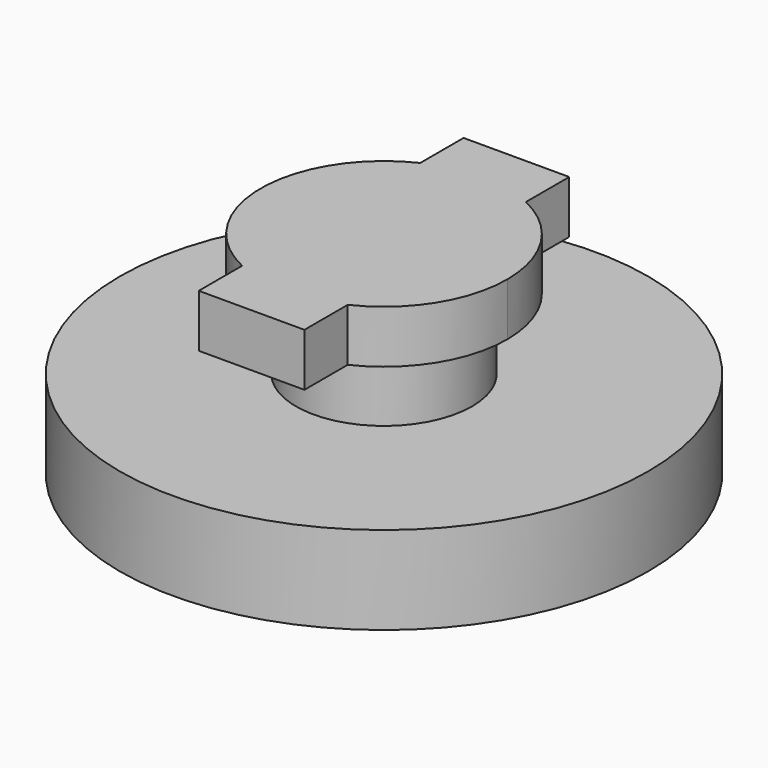
from build123d import *

# Parameters (mm, degrees)
F1_DEPTH = 15
F2_R     = 25
F3_DEPTH = 20
F5_R     = 75
F6_DEPTH = 25


with BuildPart() as f1:
    # F0 (on Top) → F1 (new body)
    with BuildSketch(Plane.XY):
        with BuildLine():
            ThreePointArc((15, -31.6227766017), (29.5803989155, -18.7082869339), (35, 0))
            ThreePointArc((35, 0), (29.5803989155, 18.7082869339), (15, 31.6227766017))
            Line((15, 31.6227766017), (15, 27.5))
            Line((15, 27.5), (-15, 27.5))
            Line((-15, 27.5), (-15, 31.6227766017))
            ThreePointArc((-15, 31.6227766017), (-35, 0), (-15, -31.6227766017))
            Line((-15, -31.6227766017), (-15, -27.5))
            Line((-15, -27.5), (15, -27.5))
            Line((15, -27.5), (15, -31.6227766017))
        make_face()
        with BuildLine():
            Line((15, 27.5), (15, 31.6227766017))
            ThreePointArc((15, 31.6227766017), (0, 35), (-15, 31.6227766017))
            Line((-15, 31.6227766017), (-15, 27.5))
            Line((-15, 27.5), (15, 27.5))
        make_face()
        with BuildLine():
            ThreePointArc((-15, 31.6227766017), (0, 35), (15, 31.6227766017))
            Line((15, 31.6227766017), (15, 47))
            Line((15, 47), (-15, 47))
            Line((-15, 47), (-15, 31.6227766017))
        make_face()
        with BuildLine():
            Line((15, -47), (15, -31.6227766017))
            ThreePointArc((15, -31.6227766017), (0, -35), (-15, -31.6227766017))
            Line((-15, -31.6227766017), (-15, -47))
            Line((-15, -47), (15, -47))
        make_face()
        with BuildLine():
            ThreePointArc((-15, -31.6227766017), (0, -35), (15, -31.6227766017))
            Line((15, -31.6227766017), (15, -27.5))
            Line((15, -27.5), (-15, -27.5))
            Line((-15, -27.5), (-15, -31.6227766017))
        make_face()
    extrude(amount=F1_DEPTH)

    # F2 (on Top) → F3 (join)
    with BuildSketch(Plane.XY):
        Circle(F2_R)
    extrude(amount=-F3_DEPTH)

    # F5 (on offset) → F6 (join)
    with BuildSketch(Plane.XY.offset(-20)):
        Circle(F5_R)
    extrude(amount=-F6_DEPTH)


solid = f1.part
